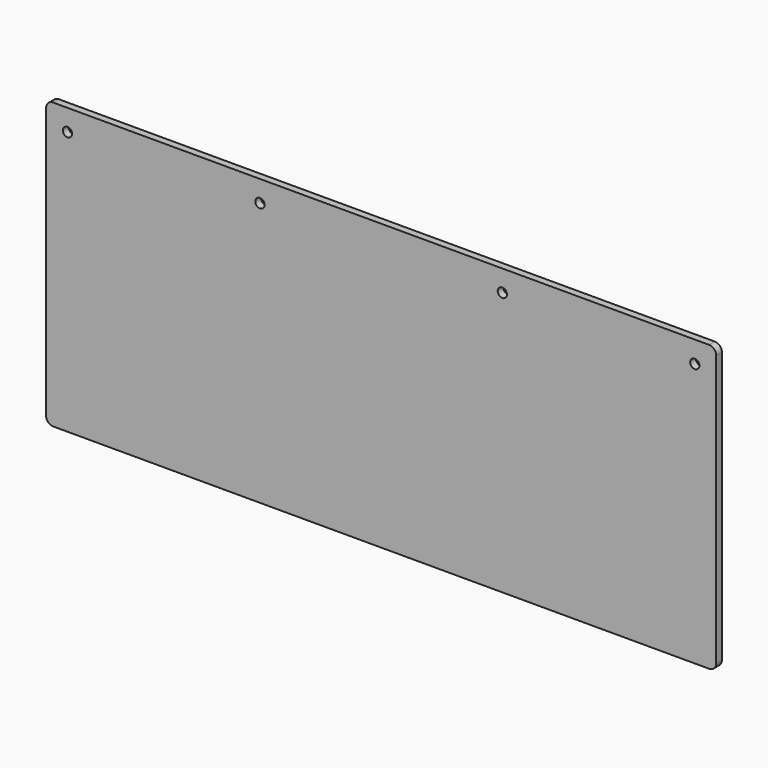
from build123d import *

# Parameters (mm, degrees)
F0_W     = 470
F0_H     = 200
F0_R     = 3.25
F1_DEPTH = 5
F2_R     = 5


with BuildPart() as f1:
    # F0 (on Front) → F1 (new body)
    with BuildSketch(Plane.XZ):
        with Locations((235, 100)):
            Rectangle(F0_W, F0_H)
        with Locations((15, 185)):
            Circle(F0_R, mode=Mode.SUBTRACT)
        with Locations((150, 185)):
            Circle(F0_R, mode=Mode.SUBTRACT)
        with Locations((320, 185)):
            Circle(F0_R, mode=Mode.SUBTRACT)
        with Locations((455, 185)):
            Circle(F0_R, mode=Mode.SUBTRACT)
    extrude(amount=F1_DEPTH)

    # F2
    f2_edges = [f1.edges().sort_by_distance(p)[0] for p in [
        (0, -2.5, 200),
        (470, -2.5, 0),
        (0, -2.5, 0),
        (470, -2.5, 200),
    ]]
    fillet(f2_edges, radius=F2_R)


solid = f1.part
